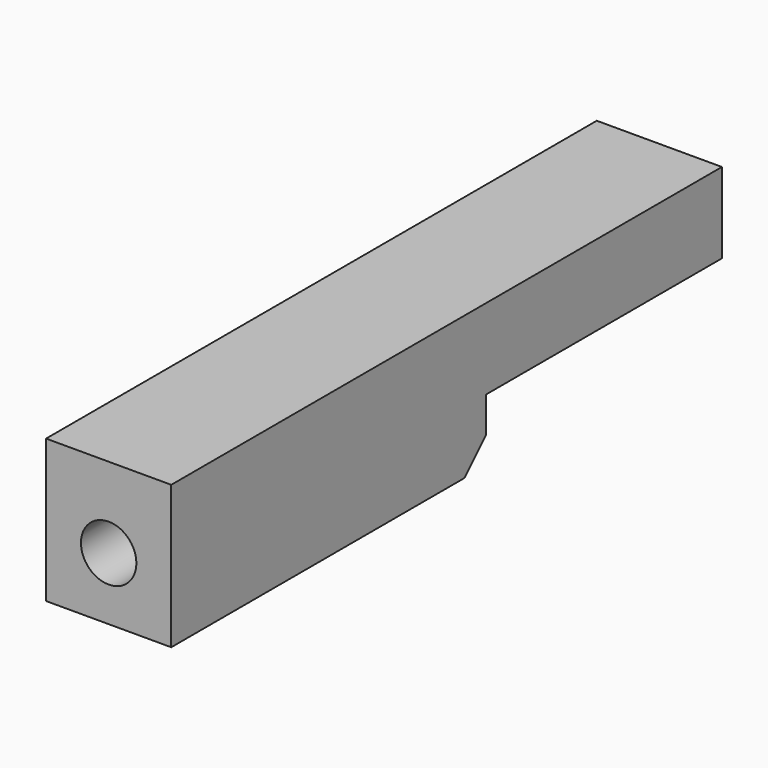
from build123d import *

# Parameters (mm, degrees)
SKETCH_W       = 7
SKETCH_H       = 7
SKETCH_R       = 1.55
PAD_DEPTH      = 38.5
SKETCH001_W    = 3.5
SKETCH001_H    = 16.5
POCKET_DEPTH   = 7.001
POCKET_FACE7_W = 38.5
POCKET_FACE7_H = 7
PAD001_DEPTH   = 1
CHAMFER_SIZE   = 1.5


with BuildPart() as part:
    # Sketch → Pad (new body)
    with BuildSketch(Plane.XZ):
        Rectangle(SKETCH_W, SKETCH_H)
        Circle(SKETCH_R, mode=Mode.SUBTRACT)
    extrude(amount=PAD_DEPTH)

    # Sketch001 (on Face3 of Pad) → Pocket (cut, through all)
    with BuildSketch(Plane(origin=(3.5, 0, 0), x_dir=(0, 0, 1), z_dir=(1, 0, 0))):
        with Locations((-1.75, 8.25)):
            Rectangle(SKETCH001_W, SKETCH001_H)
    extrude(amount=-POCKET_DEPTH, mode=Mode.SUBTRACT)

    # Pocket Face7 → Pad001 (add)
    with BuildSketch(Plane(origin=(0, -19.25, 3.5), x_dir=(0, 1, 0), z_dir=(0, 0, 1))):
        Rectangle(POCKET_FACE7_W, POCKET_FACE7_H)
    extrude(amount=PAD001_DEPTH)

    # Chamfer
    chamfer_edges = [part.edges().sort_by_distance(p)[0] for p in [
        (0, -16.5, -3.5),
    ]]
    chamfer(chamfer_edges, length=CHAMFER_SIZE)


solid = part.part
